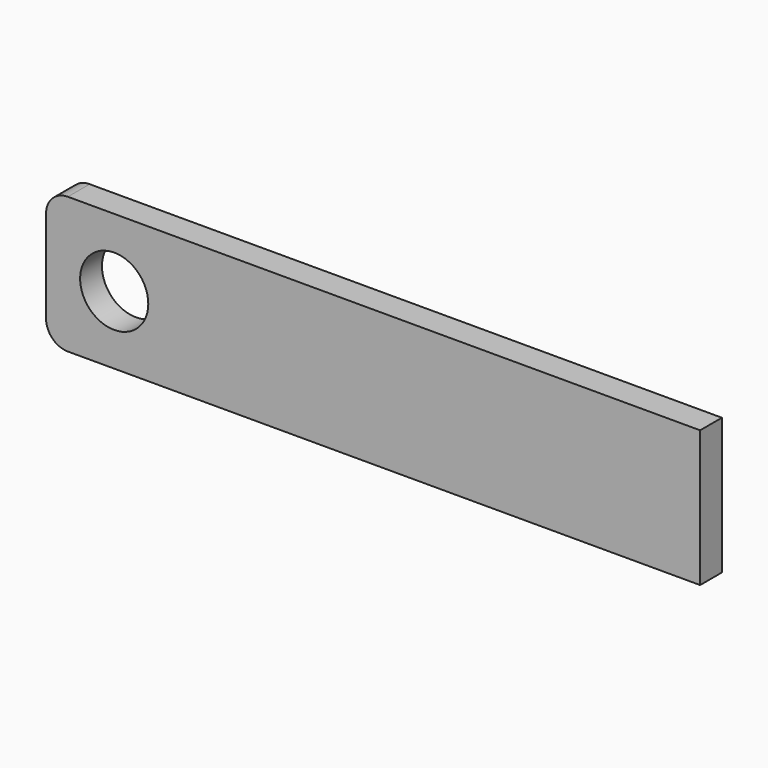
from build123d import *

# Parameters (mm, degrees)
F0_W     = 152.4
F0_H     = 31.75
F0_R     = 7.9375
F1_DEPTH = 3.175
F2_R     = 5.08


with BuildPart() as f1:
    # F0 (on Front) → F1 (new body, symmetric)
    with BuildSketch(Plane.XZ):
        with Locations((2.297985, 0)):
            Rectangle(F0_W, F0_H)
        with Locations((-58.027015, 0)):
            Circle(F0_R, mode=Mode.SUBTRACT)
    extrude(amount=F1_DEPTH, both=True)

    # F2
    f2_edges = [f1.edges().sort_by_distance(p)[0] for p in [
        (-73.902015, 0, 15.875),
        (-73.902015, 0, -15.875),
    ]]
    fillet(f2_edges, radius=F2_R)


solid = f1.part
